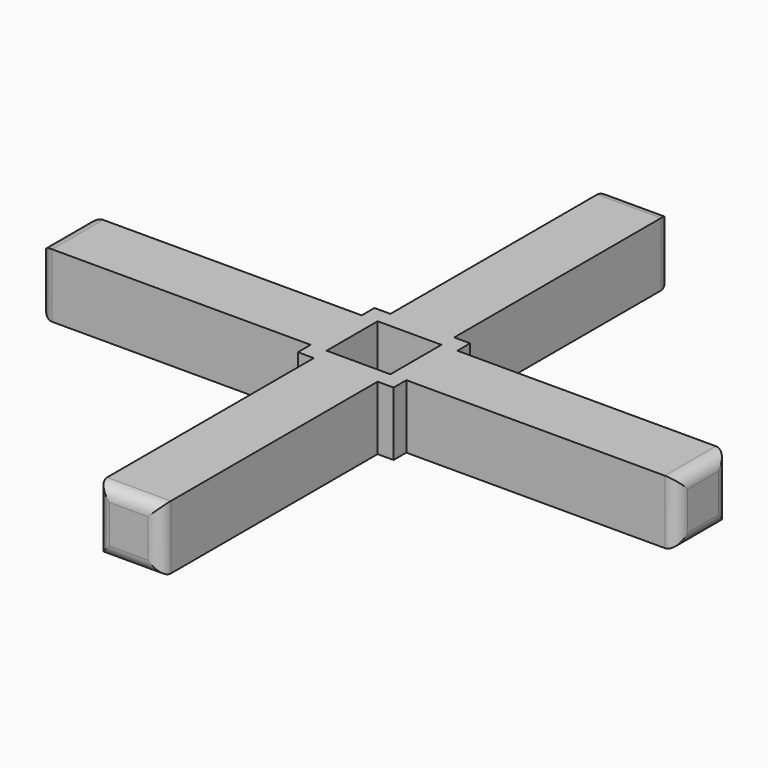
from build123d import *

# Parameters (mm, degrees)
F1_W     = 100
F1_H     = 10
F2_DEPTH = 10
F3_R     = 2
F5_COUNT = 4
F6_W     = 15
F6_H     = 15
F6_W_2   = 10
F6_H_2   = 10
F7_DEPTH = 10
F8_DEPTH = 25.4


with BuildPart() as f2:
    # F1 (on Top) → F2 (new body)
    with BuildSketch(Plane.XY):
        Rectangle(F1_W, F1_H)
    extrude(amount=F2_DEPTH)

    # F3
    f3_edges = [f2.edges().sort_by_distance(p)[0] for p in [
        (50, -5, 5),
        (50, 5, 5),
        (50, 0, 0),
        (50, 0, 10),
        (-50, 5, 5),
        (-50, -5, 5),
        (-50, 0, 0),
        (-50, 0, 10),
    ]]
    fillet(f3_edges, radius=F3_R)

    # F5: F2 ×4 about axis
    f5_axis = Axis((0, 0, 17.9461631924), (0, 0, 1))


with BuildPart() as f2_1:
    add(f2.part)
    for i in range(1, F5_COUNT):
        add(f2.part.rotate(f5_axis, i * 360 / F5_COUNT))

    # F6 (on Top) → F7 (join)
    with BuildSketch(Plane.XY):
        Rectangle(F6_W, F6_H)
        Rectangle(F6_W_2, F6_H_2, mode=Mode.SUBTRACT)
    extrude(amount=F7_DEPTH)

    # F6 (on Top) → F8 (cut)
    with BuildSketch(Plane.XY):
        Rectangle(F6_W_2, F6_H_2)
    extrude(amount=F8_DEPTH, mode=Mode.SUBTRACT)


solid = f2_1.part
